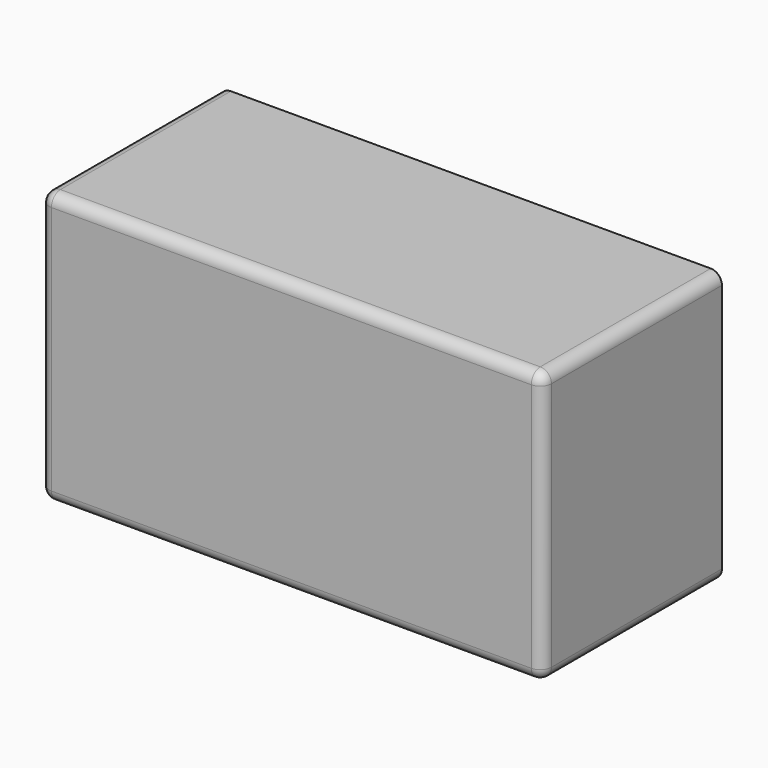
from build123d import *

# Parameters (mm, degrees)
F0_W      = 227.5207936764
F0_H      = 123.2175752521
F1_DEPTH  = 101.6
F2_T      = -2.54
F3_R      = 5.08
F4_R      = 5.08
F5_R      = 5.08
F6_R      = 5.08
F7_R      = 5.08
F8_R      = 5.08
F9_R      = 5.08
F10_R     = 5.08
F11_R     = 5.08
F12_W     = 96.52
F12_H     = 113.0575752521
F12_R     = 21.0345271837
F13_DEPTH = 1.06687
F14_DEPTH = 25.4


with BuildPart() as f1:
    # F0 (on Front) → F1 (new body)
    with BuildSketch(Plane.XZ):
        with Locations((54.1070699692, 5.3321830928)):
            Rectangle(F0_W, F0_H)
    extrude(amount=F1_DEPTH)

    # F2
    f2_openings = [f1.faces().sort_by_distance(p)[0] for p in [
        (54.10707, 0, 5.332183),
    ]]
    offset(amount=F2_T, openings=f2_openings)

    # F3
    f3_edges = [f1.edges().sort_by_distance(p)[0] for p in [
        (54.10707, -99.06, 64.400971),
    ]]
    fillet(f3_edges, radius=F3_R)

    # F4
    f4_edges = [f1.edges().sort_by_distance(p)[0] for p in [
        (-57.113327, -99.06, 2.792183),
    ]]
    fillet(f4_edges, radius=F4_R)

    # F5
    f5_edges = [f1.edges().sort_by_distance(p)[0] for p in [
        (56.64707, -99.06, -53.736605),
    ]]
    fillet(f5_edges, radius=F5_R)

    # F6
    f6_edges = [f1.edges().sort_by_distance(p)[0] for p in [
        (165.327467, -99.06, 5.332183),
    ]]
    fillet(f6_edges, radius=F6_R)

    # F7
    f7_edges = [f1.edges().sort_by_distance(p)[0] for p in [
        (-59.653327, -50.8, 66.940971),
    ]]
    fillet(f7_edges, radius=F7_R)

    # F8
    f8_edges = [f1.edges().sort_by_distance(p)[0] for p in [
        (-59.653327, -50.8, -56.276605),
    ]]
    fillet(f8_edges, radius=F8_R)

    # F9
    f9_edges = [f1.edges().sort_by_distance(p)[0] for p in [
        (167.867467, -50.8, 66.940971),
    ]]
    fillet(f9_edges, radius=F9_R)

    # F10
    f10_edges = [f1.edges().sort_by_distance(p)[0] for p in [
        (162.787467, -50.8, 66.940971),
        (167.867467, -50.8, -56.276605),
    ]]
    fillet(f10_edges, radius=F10_R)

    # F11
    f11_edges = [f1.edges().sort_by_distance(p)[0] for p in [
        (54.10707, -101.6, 66.940971),
    ]]
    fillet(f11_edges, radius=F11_R)

    # F12 (on face) → F13 (cut)
    with BuildSketch(Plane(origin=(-59.653326869, 0, 0), x_dir=(0, -1, 0), z_dir=(-1, 0, 0))):
        with Locations((48.26, 5.3321830928)):
            Rectangle(F12_W, F12_H)
        with Locations((49.5954602957, 6.9027016871)):
            Circle(F12_R, mode=Mode.SUBTRACT)
    extrude(amount=-F13_DEPTH, mode=Mode.SUBTRACT)

    # F14 (cut): a face of the model
    f14_faces = [f1.faces().sort_by_distance(p)[0] for p in [
        (-59.653326869, -49.5954602957, 6.9027016871),
    ]]
    extrude(f14_faces, amount=-F14_DEPTH, mode=Mode.SUBTRACT)


solid = f1.part
